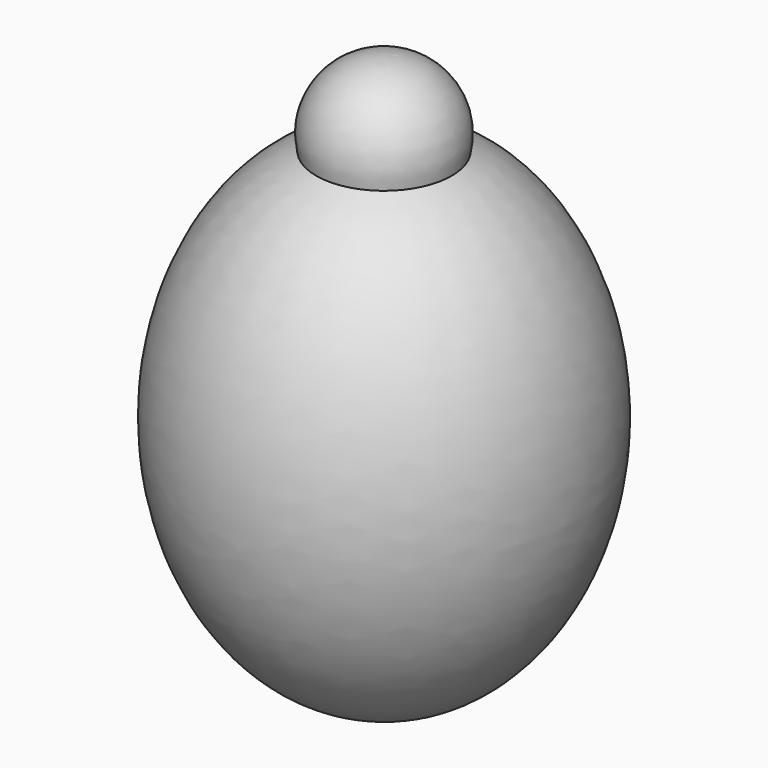
from build123d import *


with BuildPart() as f1:
    # F0 (on Front) → F1 (revolve)
    with BuildSketch(Plane.XZ):
        with BuildLine():
            ThreePointArc((0.9919531955, 131.0531430137), (-17.7876486793, 137.0674958704), (-28.4806944533, 153.6356779957))
            add(Edge.make_bspline(
                [(-28.4806944533, 153.6356779957), (-93.8230004627, 122.1407774973), (-81.2195034456, 32.3255455076), (-68.6160064285, -57.4896864821), (0.9919531955, -56.3927516007)],
                knots=[3.4936908956, 3.4936908956, 3.4936908956, 4.8944439455, 4.8944439455, 6.2951969954, 6.2951969954, 6.2951969954], degree=2, weights=[1, 0.764599569, 1, 0.764599569, 1]))
            Line((0.9919531955, -56.3927516007), (0.9919531955, 131.0531430137))
        make_face()
        with BuildLine():
            Line((0.9919531955, 131.0531430137), (0.9919531955, 160.2744832301))
            add(Edge.make_bspline(
                [(0.9919531955, 160.2744832301), (-14.2101722536, 160.5140498223), (-28.4806944533, 153.6356779957)],
                knots=[3.1295809653, 3.1295809653, 3.1295809653, 3.4936908956, 3.4936908956, 3.4936908956], degree=2, weights=[1, 0.9834737162, 1]))
            ThreePointArc((-28.4806944533, 153.6356779957), (-17.7876486793, 137.0674958704), (0.9919531955, 131.0531430137))
        make_face()
        with BuildLine():
            add(Edge.make_bspline(
                [(0.9919531955, 160.2744832301), (-14.2101722536, 160.5140498223), (-28.4806944533, 153.6356779957)],
                knots=[3.1295809653, 3.1295809653, 3.1295809653, 3.4936908956, 3.4936908956, 3.4936908956], degree=2, weights=[1, 0.9834737162, 1]))
            Line((0.9919531955, 160.2744832301), (0.9919531955, 189.5114548314))
            ThreePointArc((0.9919531955, 189.5114548314), (-22.598131889, 178.8471032956), (-28.4806944533, 153.6356779957))
        make_face()
        with BuildLine():
            ThreePointArc((0.9919531955, 131.0531430137), (-17.7876486793, 137.0674958704), (-28.4806944533, 153.6356779957))
            add(Edge.make_bspline(
                [(-28.4806944533, 153.6356779957), (-93.8230004627, 122.1407774973), (-81.2195034456, 32.3255455076), (-68.6160064285, -57.4896864821), (0.9919531955, -56.3927516007)],
                knots=[3.4936908956, 3.4936908956, 3.4936908956, 4.8944439455, 4.8944439455, 6.2951969954, 6.2951969954, 6.2951969954], degree=2, weights=[1, 0.764599569, 1, 0.764599569, 1]))
            Line((0.9919531955, -56.3927516007), (0.9919531955, 131.0531430137))
        make_face()
        with BuildLine():
            Line((0.9919531955, 131.0531430137), (0.9919531955, 160.2744832301))
            add(Edge.make_bspline(
                [(0.9919531955, 160.2744832301), (-14.2101722536, 160.5140498223), (-28.4806944533, 153.6356779957)],
                knots=[3.1295809653, 3.1295809653, 3.1295809653, 3.4936908956, 3.4936908956, 3.4936908956], degree=2, weights=[1, 0.9834737162, 1]))
            ThreePointArc((-28.4806944533, 153.6356779957), (-17.7876486793, 137.0674958704), (0.9919531955, 131.0531430137))
        make_face()
        with BuildLine():
            add(Edge.make_bspline(
                [(0.9919531955, 160.2744832301), (-14.2101722536, 160.5140498223), (-28.4806944533, 153.6356779957)],
                knots=[3.1295809653, 3.1295809653, 3.1295809653, 3.4936908956, 3.4936908956, 3.4936908956], degree=2, weights=[1, 0.9834737162, 1]))
            Line((0.9919531955, 160.2744832301), (0.9919531955, 189.5114548314))
            ThreePointArc((0.9919531955, 189.5114548314), (-22.598131889, 178.8471032956), (-28.4806944533, 153.6356779957))
        make_face()
    revolve(axis=Axis((0.9919531955, 0, 66.5593516153), (0, 0, -1)))


solid = f1.part
